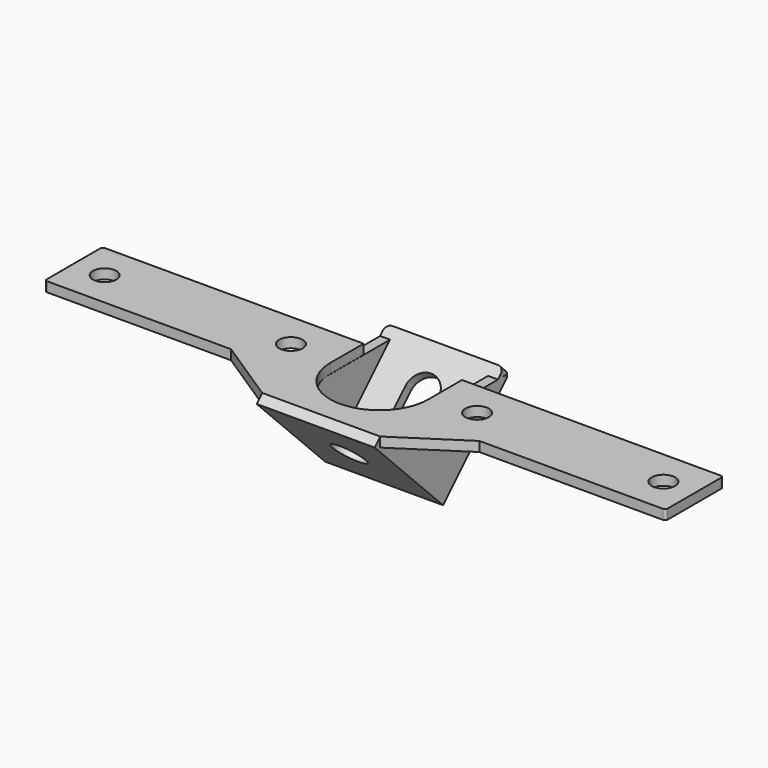
from build123d import *

# Parameters (mm, degrees)
SKETCH_W             = 24.13
SKETCH_H             = 24.13
SKETCH_R             = 3.3782
PAD_DEPTH            = 2
PAD001_DEPTH         = 12.065
SKETCH002_R          = 6.35
POCKET_DEPTH         = 22.7167864376
PAD002_DEPTH         = 2
SKETCH004_R          = 2.4
PAD003_DEPTH         = 2
POCKET001_DEPTH      = 2.54
FILLET_R             = 0.508
BODY_PLACEMENT_ANGLE = 315
SKETCH010_R          = 2.4
PAD007_DEPTH         = 2
PAD008_DEPTH         = 2.032
PAD009_DEPTH         = 2.032


with BuildPart() as part:
    # Sketch → Pad (new body)
    with BuildSketch(Plane.XY):
        with Locations((0, 12.065)):
            Rectangle(SKETCH_W, SKETCH_H)
        with Locations((0, 12.065)):
            Circle(SKETCH_R, mode=Mode.SUBTRACT)
    extrude(amount=PAD_DEPTH)

    # Sketch001 → Pad001 (join, symmetric)
    with BuildSketch(Plane.YZ):
        with BuildLine():
            Line((0, 2), (22.7157864376, 24.7157864376))
            Line((22.7157864376, 24.7157864376), (24.13, 23.3015728753))
            Line((24.13, 23.3015728753), (4.5355339059, 3.7071067812))
            ThreePointArc((4.5355339059, 3.7071067812), (4.3187611546, 2.6173165676), (5.2426406871, 2))
            Line((5.2426406871, 2), (0, 2))
        make_face()
    extrude(amount=PAD001_DEPTH, both=True)

    # Sketch002 (on Face7 of Pad001) → Pocket (cut, through all)
    with BuildSketch(Plane.XY.offset(2)):
        with Locations((0, 12.065)):
            Circle(SKETCH002_R)
    extrude(amount=POCKET_DEPTH, mode=Mode.SUBTRACT)

    # Sketch003 (on Face9 of Pocket) → Pad002 (join)
    with BuildSketch(Plane.YZ.offset(12.065)):
        with BuildLine():
            ThreePointArc((17.8909137548, 17.06248663), (15.9782409773, 7.4468312404), (24.13, 2))
            Line((2.8284271247, 2), (24.13, 2))
            Line((17.8909137548, 17.06248663), (2.8284271247, 2))
        make_face()
    pad002 = extrude(amount=-PAD002_DEPTH)

    # Mirrored: Pad002 across YZ
    add(pad002.mirror(Plane.YZ))

    # Sketch004 (on Face5 of Mirrored) → Pad003 (join)
    with BuildSketch(Plane(origin=(0, -1, 1), x_dir=(1, 0, 0), z_dir=(0, -0.7071067812, 0.7071067812))):
        Polygon((-12.065, 33.5391868224), (-25.4, 24.8427001924), (-25.4, 10.1107001924), (-12.065, 1.4142135624), align=None)
        with Locations((-19.05, 17.4767001924)):
            Circle(SKETCH004_R, mode=Mode.SUBTRACT)
    pad003 = extrude(amount=-PAD003_DEPTH)

    # Mirrored001: Pad003 across Sketch004 V_Axis
    add(pad003.mirror(Plane(origin=(0, -1, 1), x_dir=(0, -0.7071067812, 0.7071067812), z_dir=(1, 0, 0))))

    # Sketch006 (on Face5 of Mirrored001) → Pocket001 (cut)
    with BuildSketch(Plane(origin=(0, -1, 1), x_dir=(1, 0, 0), z_dir=(0, -0.7071067812, 0.7071067812))):
        with BuildLine():
            Line((25.4, 24.8427001924), (25.4, 33.5391868224))
            Line((25.4, 33.5391868224), (-25.4, 33.5391868224))
            Line((-25.4, 33.5391868224), (-25.4, 24.8427001924))
            Line((-25.4, 24.8427001924), (-10.065, 24.8427001924))
            Line((-10.065, 16.2914440713), (-10.065, 24.8427001924))
            ThreePointArc((-10.065, 16.2914440713), (0, 6.2264440713), (10.065, 16.2914440713))
            Line((10.065, 16.2914440713), (10.065, 24.8427001924))
            Line((10.065, 24.8427001924), (25.4, 24.8427001924))
        make_face()
    extrude(amount=-POCKET001_DEPTH, mode=Mode.SUBTRACT)

    # Fillet
    fillet_edges = [part.edges().sort_by_distance(p)[0] for p in [
        (-25.4, 17.273549, 17.859335),
        (25.4, 17.273549, 17.859335),
    ]]
    fillet(fillet_edges, radius=FILLET_R)


with BuildPart() as part_1:
    # Body placement: moved
    add(part.part.rotate(Axis((0, 0, 0), (1, 0, 0)), BODY_PLACEMENT_ANGLE))

    # Sketch010 (on Face11 of Clone) → Pad007 (new body)
    with BuildSketch(Plane.XY.offset(1.4142135624)):
        with BuildLine():
            Line((-24.892, 24.8427001924), (-62.992, 24.8427001924))
            ThreePointArc((-62.992, 24.8427001924), (-63.3512102448, 24.6939104372), (-63.5, 24.3347001924))
            Line((-63.5, 24.3347001924), (-63.5, 10.6187001924))
            ThreePointArc((-63.5, 10.6187001924), (-63.3512102448, 10.2594899476), (-62.992, 10.1107001924))
            Line((-62.992, 10.1107001924), (-24.892, 10.1107001924))
            Line((-24.892, 10.1107001924), (-24.892, 24.8427001924))
        make_face()
        with Locations((-57.15, 17.4767001924)):
            Circle(SKETCH010_R, mode=Mode.SUBTRACT)
    pad007 = extrude(amount=-PAD007_DEPTH)

    # Mirrored003: Pad007 across Sketch010 V_Axis
    add(pad007.mirror(Plane(origin=(0, 0, 1.4142135624), x_dir=(0, 0, 1), z_dir=(1, 0, 0))))

    # Sketch011 (on Face21 of Mirrored003) → Pad008 (join)
    with BuildSketch(Plane(origin=(0, 17.5114994361, -17.5114994361), x_dir=(-1, 0, 0), z_dir=(0, 0.7071067812, -0.7071067812))):
        with BuildLine():
            Line((12.065, 0), (12.065, 22.86))
            ThreePointArc((12.065, 22.86), (11.6930256121, 23.7580256121), (10.795, 24.13))
            Line((10.795, 24.13), (-10.795, 24.13))
            ThreePointArc((-10.795, 24.13), (-11.6930256121, 23.7580256121), (-12.065, 22.86))
            Line((-12.065, 22.86), (-12.065, 0))
            Line((12.065, 0), (-12.065, 0))
        make_face()
        with BuildLine():
            ThreePointArc((3.3782, 15.6718), (0, 19.05), (-3.3782, 15.6718))
            Line((-3.3782, 15.6718), (-3.3782, 9.7282))
            ThreePointArc((-3.3782, 9.7282), (0, 6.35), (3.3782, 9.7282))
            Line((3.3782, 15.6718), (3.3782, 9.7282))
        make_face(mode=Mode.SUBTRACT)
    extrude(amount=-PAD008_DEPTH)

    # Sketch012 (on Face13 of Pad008) → Pad009 (join)
    with BuildSketch(Plane(origin=(-12.065, 0, 0), x_dir=(0, -0.7071067812, 0.7071067812), z_dir=(-1, 0, 0))):
        Polygon((-24.13, 2), (-2.8284271247, 2), (-24.13, 23.3015728753), align=None)
    pad009 = extrude(amount=-PAD009_DEPTH)

    # Mirrored004: Pad009 across YZ
    add(pad009.mirror(Plane.YZ))


with BuildPart() as part_2:
    # Body002 placement: moved
    add(part_1.part.moved(Location((211.8868, 0, 0))))


solid = part_2.part
